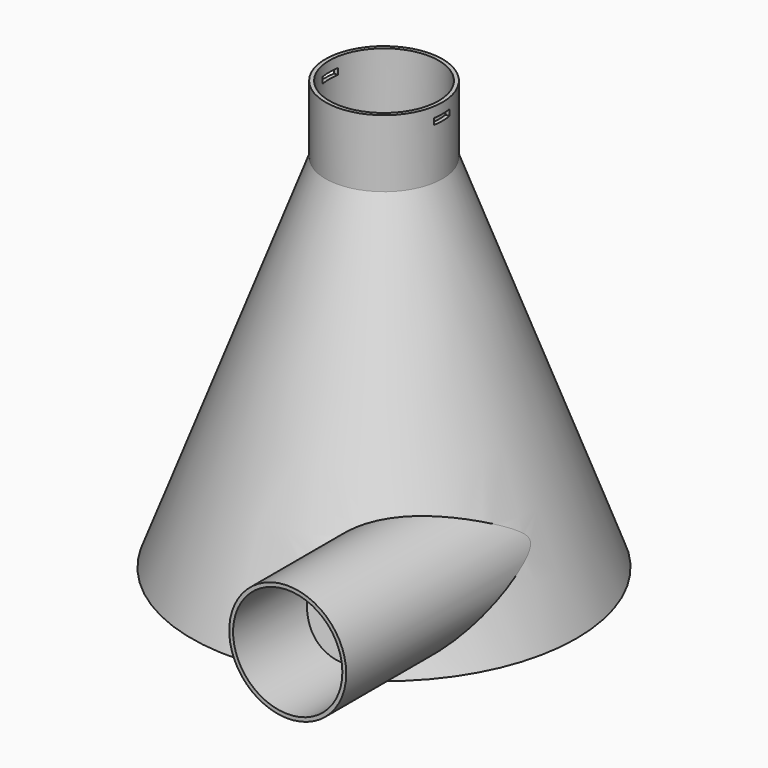
from build123d import *

# Parameters (mm, degrees)
SKETCH002_R          = 80
SKETCH003_R          = 24.3
SKETCH004_R          = 24.3
PAD001_DEPTH         = 105
SKETCH005_R          = 22.7
SKETCH006_R          = 77.5
SKETCH011_R          = 22.7
POCKET001_DEPTH      = 5
POCKET001_DEPTH_BACK = 100
SKETCH008_R          = 22.7
POCKET002_DEPTH      = 5
SKETCH009_R          = 24.3
SKETCH009_R_2        = 22.7
PAD002_DEPTH         = 28
SKETCH010_W          = 8
SKETCH010_H          = 2.54
POCKET003_DEPTH      = 100
POCKET003_DEPTH_BACK = 100
SKETCH_R             = 24.3
SKETCH_R_2           = 22.7
PAD_DEPTH            = 29
SKETCH001_W          = 8
SKETCH001_H          = 2.6
POCKET_DEPTH         = 100
POCKET_DEPTH_BACK    = 100
PAD003_DEPTH         = 0.8
PAD003_DEPTH_BACK    = 0.8
POLARPATTERN_COUNT   = 4


with BuildPart() as body001:
    # Sketch002 → AdditiveLoft section 0
    with BuildSketch(Plane.XY):
        Circle(SKETCH002_R)
    # Sketch003 → AdditiveLoft section 1
    with BuildSketch(Plane.XY.offset(150)):
        Circle(SKETCH003_R)
    loft()

    # Sketch004 → Pad001 (new body)
    with BuildSketch(Plane.XZ):
        with Locations((44, 26)):
            Circle(SKETCH004_R)
    extrude(amount=PAD001_DEPTH)

    # Sketch005 (on Face3 of Pad001) → SubtractiveLoft section 0
    with BuildSketch(Plane.XY.offset(150)):
        Circle(SKETCH005_R)
    # Sketch006 (on Face1 of Pad001) → SubtractiveLoft section 1
    with BuildSketch(Plane(origin=(0, 0, 3), x_dir=(1, 0, 0), z_dir=(0, 0, -1))):
        Circle(SKETCH006_R)
    loft(mode=Mode.SUBTRACT)

    # Sketch011 → Pocket001 (cut, two sides)
    with BuildSketch(Plane.XZ.offset(12)) as pocket001_sk:
        with Locations((44, 26)):
            Circle(SKETCH011_R)
    extrude(amount=-POCKET001_DEPTH, mode=Mode.SUBTRACT)
    extrude(pocket001_sk.sketch, amount=POCKET001_DEPTH_BACK, mode=Mode.SUBTRACT)

    # Sketch008 → Pocket002 (cut)
    with BuildSketch(Plane.XY):
        Circle(SKETCH008_R)
    extrude(amount=POCKET002_DEPTH, mode=Mode.SUBTRACT)

    # Sketch009 → Pad002 (join)
    with BuildSketch(Plane.XY.offset(150)):
        Circle(SKETCH009_R)
        Circle(SKETCH009_R_2, mode=Mode.SUBTRACT)
    extrude(amount=PAD002_DEPTH)

    # Sketch010 → Pocket003 (cut, two sides)
    with BuildSketch(Plane.YZ) as pocket003_sk:
        with Locations((0, 172.47)):
            Rectangle(SKETCH010_W, SKETCH010_H)
    extrude(amount=-POCKET003_DEPTH, mode=Mode.SUBTRACT)
    extrude(pocket003_sk.sketch, amount=POCKET003_DEPTH_BACK, mode=Mode.SUBTRACT)


with BuildPart() as body:
    # Sketch → Pad (new body)
    with BuildSketch(Plane.XY):
        Circle(SKETCH_R)
        Circle(SKETCH_R_2, mode=Mode.SUBTRACT)
    extrude(amount=PAD_DEPTH)

    # Sketch001 → Pocket (cut, two sides)
    with BuildSketch(Plane.XZ) as pocket_sk:
        with Locations((0, 26.3)):
            Rectangle(SKETCH001_W, SKETCH001_H)
    extrude(amount=-POCKET_DEPTH, mode=Mode.SUBTRACT)
    extrude(pocket_sk.sketch, amount=POCKET_DEPTH_BACK, mode=Mode.SUBTRACT)

    # Boolean: union Body001
    add(body001.part)

    # Sketch012 → Pad003 (join, two sides)
    with BuildSketch(Plane.XZ) as pad003_sk:
        Polygon((24.3, 29), (39.3, 0), (24.3, 0), align=None)
    pad003 = extrude(amount=PAD003_DEPTH) + extrude(pad003_sk.sketch, amount=-PAD003_DEPTH_BACK)

    # PolarPattern: Pad003 ×4 about axis
    polarpattern_axis = Axis((0, 0, 0), (0, 0, 1))
    for i in range(1, POLARPATTERN_COUNT):
        add(pad003.rotate(polarpattern_axis, i * 360 / POLARPATTERN_COUNT))


solid = body.part
